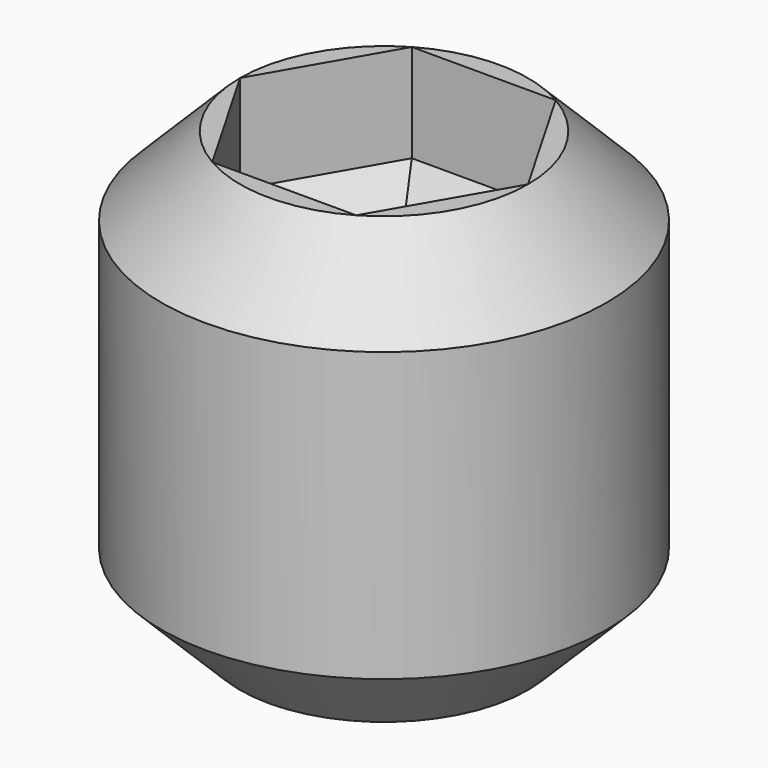
from build123d import *

# Parameters (mm, degrees)
SKETCH_R        = 1.5
PAD_DEPTH       = 3
CHAMFER_SIZE    = 0.53
POCKET_DEPTH    = 1.5
CHAMFER001_SIZE = 0.84


with BuildPart() as part:
    # Sketch → Pad (new body)
    with BuildSketch(Plane.XY):
        Circle(SKETCH_R)
    extrude(amount=PAD_DEPTH)

    # Chamfer
    chamfer_edges = [part.edges().sort_by_distance(p)[0] for p in [
        (-1.5, 0, 3),
        (-1.5, 0, 0),
    ]]
    chamfer(chamfer_edges, length=CHAMFER_SIZE)

    # Sketch001 → Pocket (cut)
    with BuildSketch(Plane.XY.offset(3)):
        Polygon((-0.485, 0.840045), (0.485, 0.840045), (0.97, 0), (0.485, -0.840045), (-0.485, -0.840045), (-0.97, 0), align=None)
    extrude(amount=-POCKET_DEPTH, mode=Mode.SUBTRACT)

    # Chamfer001
    chamfer001_edges = [part.edges().sort_by_distance(p)[0] for p in [
        (0, 0.840045, 1.5),
        (0.7275, 0.420022, 1.5),
        (0.7275, -0.420022, 1.5),
        (0, -0.840045, 1.5),
        (-0.7275, -0.420022, 1.5),
        (-0.7275, 0.420022, 1.5),
    ]]
    chamfer(chamfer001_edges, length=CHAMFER001_SIZE)


solid = part.part
